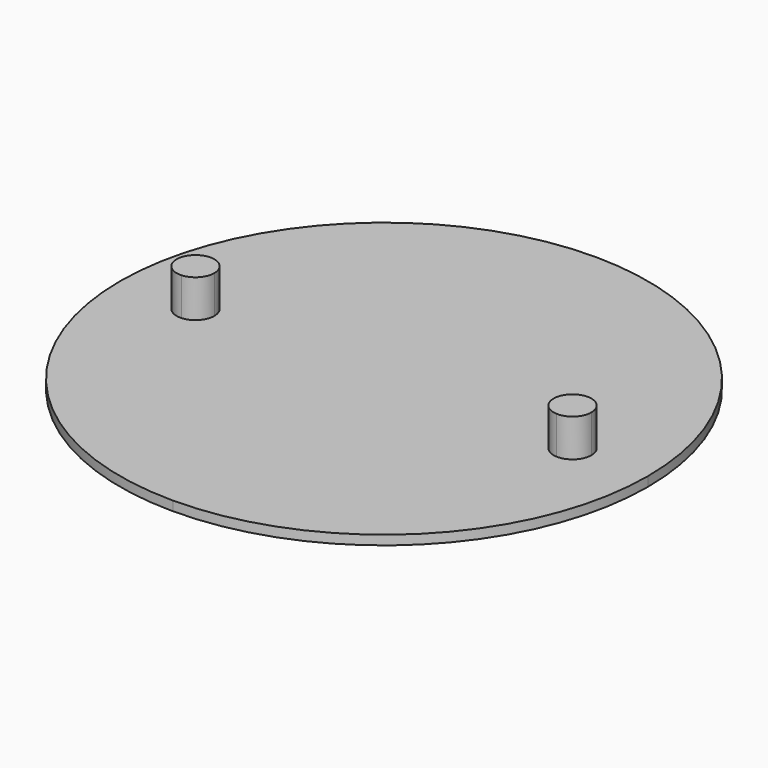
from build123d import *

# Parameters (mm, degrees)
F1_DEPTH = 1.5875
F2_DEPTH = 7.9375


with BuildPart() as f1:
    # F0 (on Top) → F1 (new body)
    with BuildSketch(Plane.XY):
        with BuildLine():
            ThreePointArc((-44.45, 0), (-31.4308964237, -31.4308964237), (0, -44.45))
            Line((0, -44.45), (0, -31.75))
            ThreePointArc((0, -31.75), (-21.3000274256, -23.5450914559), (-31.59125, -3.1710287664))
            ThreePointArc((-31.59125, -3.1710287664), (-33.9382177394, -2.3005060585), (-34.925, 0))
            Line((-34.925, 0), (-44.45, 0))
        make_face()
        with BuildLine():
            ThreePointArc((-31.59125, -3.1710287664), (-21.3000274256, -23.5450914559), (0, -31.75))
            Line((0, -31.75), (0, 0))
            Line((0, 0), (-28.575, 0))
            ThreePointArc((-28.575, 0), (-29.4494939415, -2.1882177394), (-31.59125, -3.1710287664))
        make_face()
        with BuildLine():
            Line((0, 0), (0, -31.75))
            ThreePointArc((0, -31.75), (21.3000274256, -23.5450914559), (31.59125, -3.1710287664))
            ThreePointArc((31.59125, -3.1710287664), (29.4494939415, -2.1882177394), (28.575, 0))
            Line((28.575, 0), (0, 0))
        make_face()
        with BuildLine():
            ThreePointArc((0, -44.45), (31.4308964237, -31.4308964237), (44.45, 0))
            Line((44.45, 0), (34.925, 0))
            ThreePointArc((34.925, 0), (33.9382177394, -2.3005060585), (31.59125, -3.1710287664))
            ThreePointArc((31.59125, -3.1710287664), (21.3000274256, -23.5450914559), (0, -31.75))
            Line((0, -31.75), (0, -44.45))
        make_face()
        with BuildLine():
            Line((34.925, 0), (44.45, 0))
            ThreePointArc((44.45, 0), (31.4308964237, 31.4308964237), (0, 44.45))
            Line((0, 44.45), (0, 31.75))
            ThreePointArc((0, 31.75), (21.3000274256, 23.5450914559), (31.59125, 3.1710287664))
            ThreePointArc((31.59125, 3.1710287664), (33.9382177394, 2.3005060585), (34.925, 0))
        make_face()
        with BuildLine():
            ThreePointArc((31.59125, 3.1710287664), (21.3000274256, 23.5450914559), (0, 31.75))
            Line((0, 31.75), (0, 0))
            Line((0, 0), (28.575, 0))
            ThreePointArc((28.575, 0), (29.4494939415, 2.1882177394), (31.59125, 3.1710287664))
        make_face()
        with BuildLine():
            Line((0, 0), (0, 31.75))
            ThreePointArc((0, 31.75), (-21.3000274256, 23.5450914559), (-31.59125, 3.1710287664))
            ThreePointArc((-31.59125, 3.1710287664), (-29.4494939415, 2.1882177394), (-28.575, 0))
            Line((-28.575, 0), (0, 0))
        make_face()
        with BuildLine():
            Line((0, 31.75), (0, 44.45))
            ThreePointArc((0, 44.45), (-31.4308964237, 31.4308964237), (-44.45, 0))
            Line((-44.45, 0), (-34.925, 0))
            ThreePointArc((-34.925, 0), (-33.9382177394, 2.3005060585), (-31.59125, 3.1710287664))
            ThreePointArc((-31.59125, 3.1710287664), (-21.3000274256, 23.5450914559), (0, 31.75))
        make_face()
    extrude(amount=F1_DEPTH)

    # F0 (on Top) → F2 (join)
    with BuildSketch(Plane.XY):
        with BuildLine():
            ThreePointArc((-31.59125, 3.1710287664), (-33.9382177394, 2.3005060585), (-34.925, 0))
            ThreePointArc((-34.925, 0), (-33.9382177394, -2.3005060585), (-31.59125, -3.1710287664))
            ThreePointArc((-31.59125, -3.1710287664), (-29.4494939415, -2.1882177394), (-28.575, 0))
            ThreePointArc((-28.575, 0), (-29.4494939415, 2.1882177394), (-31.59125, 3.1710287664))
        make_face()
        with BuildLine():
            ThreePointArc((31.59125, -3.1710287664), (33.9382177394, -2.3005060585), (34.925, 0))
            ThreePointArc((34.925, 0), (33.9382177394, 2.3005060585), (31.59125, 3.1710287664))
            ThreePointArc((31.59125, 3.1710287664), (29.4494939415, 2.1882177394), (28.575, 0))
            ThreePointArc((28.575, 0), (29.4494939415, -2.1882177394), (31.59125, -3.1710287664))
        make_face()
    extrude(amount=F2_DEPTH)


solid = f1.part
